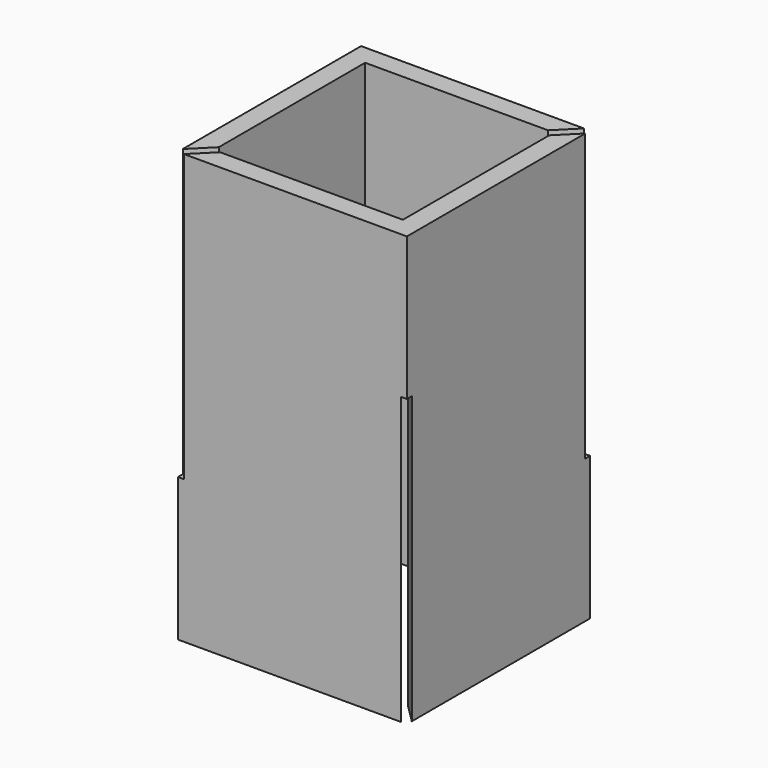
from build123d import *

# Parameters (mm, degrees)
F1_DEPTH = 15
F2_DEPTH = 5
F4_ANGLE = 90


with BuildPart() as f1:
    # F0 (on Top) → F1 (new body)
    with BuildSketch(Plane.XY):
        Polygon((-4, 4), (-4, -3.7878679656), (-3.3, -3.0878679656), (-3.3, 3.3), (3.0878679656, 3.3), (3.7878679656, 4), align=None)
        Polygon((-3.7878679656, -4), (4, -4), (4, 3.7878679656), (3.3, 3.0878679656), (3.3, -3.3), (-3.0878679656, -3.3), align=None)
    extrude(amount=F1_DEPTH)

    # F0 (on Top) → F2 (join)
    with BuildSketch(Plane.XY):
        Polygon((-4, -4), (-3.7878679656, -4), (-3.0878679656, -3.3), (-3.3, -3.3), (-3.3, -3.0878679656), (-4, -3.7878679656), align=None)
        Polygon((3.3, 3.0878679656), (4, 3.7878679656), (4, 4), (3.7878679656, 4), (3.0878679656, 3.3), (3.3, 3.3), align=None)
    extrude(amount=F2_DEPTH)


with BuildPart() as f3_1:
    # F3: instance of F1
    add(f1.part.mirror(Plane(origin=(-1.8837940264, 1.8837940264, 15), x_dir=(1, 0, 0), z_dir=(0, 0, 1))))


with BuildPart() as f3_1_1:
    # F4: moved
    add(f3_1.part.rotate(Axis((4, -4, 22.5), (0, 0, 1)), F4_ANGLE))


with BuildPart() as f3_1_2:
    # F5: moved
    add(f3_1_1.part.moved(Location((0, 8, -15))))


with BuildPart() as f1_1:
    add(f1.part)

    # F6: intersect F3_1
    add(f3_1_2.part, mode=Mode.INTERSECT)


solid = f1_1.part
